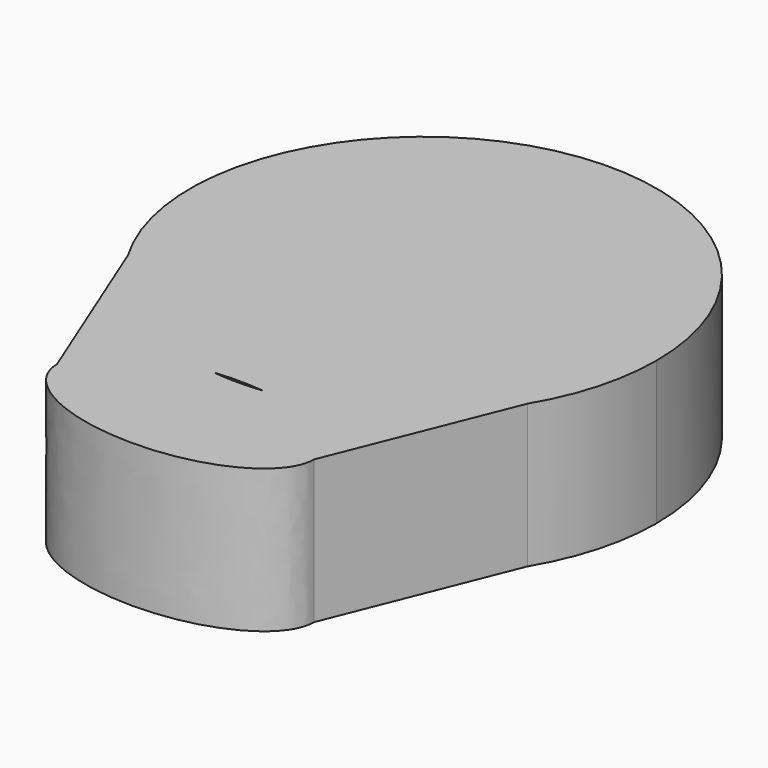
from build123d import *

# Parameters (mm, degrees)
F1_DEPTH = 7.112


with BuildPart() as f1:
    # F0 (on Top) → F1 (new body)
    with BuildSketch(Plane.XY):
        with BuildLine():
            ThreePointArc((9.9212187359, 41.0324105262), (11.1492474134, 43.8955770357), (11.5687306391, 46.9826161861))
            ThreePointArc((11.5687306391, 46.9826161861), (-3.0555074079, 58.1405462398), (-9.9547029967, 41.0886008444))
            ThreePointArc((-9.9547029967, 41.0886008444), (-6.2634417983, 37.256114994), (-1.247128383, 35.4813032438))
            add(Edge.make_bspline(
                [(0, 35.5454833462), (-0.6296277747, 35.5454833462), (-1.247128383, 35.4813032438)],
                knots=[1.5707963268, 1.5707963268, 1.5707963268, 1.7673821866, 1.7673821866, 1.7673821866], degree=2, weights=[1, 0.9951731381, 1]))
            add(Edge.make_bspline(
                [(1.247128383, 35.4813032438), (0.6296277747, 35.5454833462), (0, 35.5454833462)],
                knots=[1.374210467, 1.374210467, 1.374210467, 1.5707963268, 1.5707963268, 1.5707963268], degree=2, weights=[1, 0.9951731381, 1]))
            ThreePointArc((1.247128383, 35.4813032438), (6.2359195278, 37.2384468401), (9.9212187359, 41.0324105262))
        make_face()
        with BuildLine():
            Line((6.3849836588, 32.2133302689), (9.9212187359, 41.0324105262))
            ThreePointArc((9.9212187359, 41.0324105262), (6.2359195278, 37.2384468401), (1.247128383, 35.4813032438))
            add(Edge.make_bspline(
                [(6.3849836588, 32.2133302689), (6.3849836588, 34.9472987861), (1.247128383, 35.4813032438)],
                knots=[0, 0, 0, 1.374210467, 1.374210467, 1.374210467], degree=2, weights=[1, 0.7730854075, 1]))
        make_face()
        with BuildLine():
            ThreePointArc((0, 35.413885547), (-0.6244746491, 35.4307522667), (-1.247128383, 35.4813032438))
            add(Edge.make_bspline(
                [(-1.247128383, 35.4813032438), (-6.3849836588, 34.9472987861), (-6.3849836588, 32.2133302689)],
                knots=[1.7673821866, 1.7673821866, 1.7673821866, 3.1415926536, 3.1415926536, 3.1415926536], degree=2, weights=[1, 0.7730854075, 1]))
            Line((-6.3849836588, 32.2133302689), (0, 32.2133302689))
            Line((0, 32.2133302689), (0, 35.413885547))
        make_face()
        with BuildLine():
            add(Edge.make_bspline(
                [(6.3849836588, 32.2133302689), (6.3849836588, 34.9472987861), (1.247128383, 35.4813032438)],
                knots=[0, 0, 0, 1.374210467, 1.374210467, 1.374210467], degree=2, weights=[1, 0.7730854075, 1]))
            ThreePointArc((1.247128383, 35.4813032438), (0.6244746491, 35.4307522667), (0, 35.413885547))
            Line((0, 35.413885547), (0, 32.2133302689))
            Line((0, 32.2133302689), (6.3849836588, 32.2133302689))
        make_face()
        with BuildLine():
            Line((0, 32.2133302689), (-6.3849836588, 32.2133302689))
            add(Edge.make_bspline(
                [(-6.3849836588, 32.2133302689), (-6.3849836588, 28.8811771916), (0, 28.8811771916), (6.3849836588, 28.8811771916), (6.3849836588, 32.2133302689)],
                knots=[3.1415926536, 3.1415926536, 3.1415926536, 4.7123889804, 4.7123889804, 6.2831853072, 6.2831853072, 6.2831853072], degree=2, weights=[1, 0.7071067812, 1, 0.7071067812, 1]))
            Line((6.3849836588, 32.2133302689), (0, 32.2133302689))
        make_face()
        with BuildLine():
            ThreePointArc((-1.247128383, 35.4813032438), (-6.2634417983, 37.256114994), (-9.9547029967, 41.0886008444))
            Line((-9.9547029967, 41.0886008444), (-6.3849836588, 32.2133302689))
            add(Edge.make_bspline(
                [(-1.247128383, 35.4813032438), (-6.3849836588, 34.9472987861), (-6.3849836588, 32.2133302689)],
                knots=[1.7673821866, 1.7673821866, 1.7673821866, 3.1415926536, 3.1415926536, 3.1415926536], degree=2, weights=[1, 0.7730854075, 1]))
        make_face()
    extrude(amount=F1_DEPTH)


solid = f1.part
